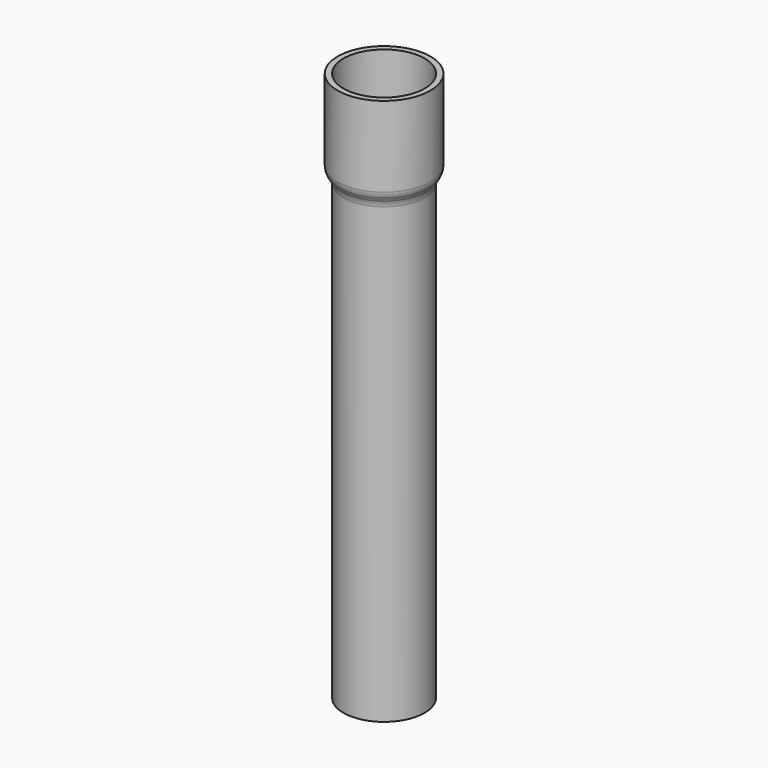
from build123d import *

# Parameters (mm, degrees)
F2_T = -2.5
F3_R = 5


with BuildPart() as f1:
    # F0 (on Front) → F1 (revolve)
    with BuildSketch(Plane.XZ):
        Polygon((20.32, 15.2080524429), (20.32, 51.7584940429), (0, 51.7584940429), (0, -189.1371041323), (17.78, -189.1371041323), (17.78, 10.8628958677), align=None)
    revolve(axis=Axis((0, 0, -68.6893050447), (0, 0, -1)))

    # F2
    f2_openings = [f1.faces().sort_by_distance(p)[0] for p in [
        (0, 0, 51.758494),
        (0, 0, -189.137104),
    ]]
    offset(amount=F2_T, openings=f2_openings, kind=Kind.INTERSECTION)

    # F3
    f3_edges = [f1.edges().sort_by_distance(p)[0] for p in [
        (-17.78, 0, 10.862896),
        (-20.32, 0, 15.208052),
        (19.05, 0, 13.035474),
    ]]
    fillet(f3_edges, radius=F3_R)


solid = f1.part
